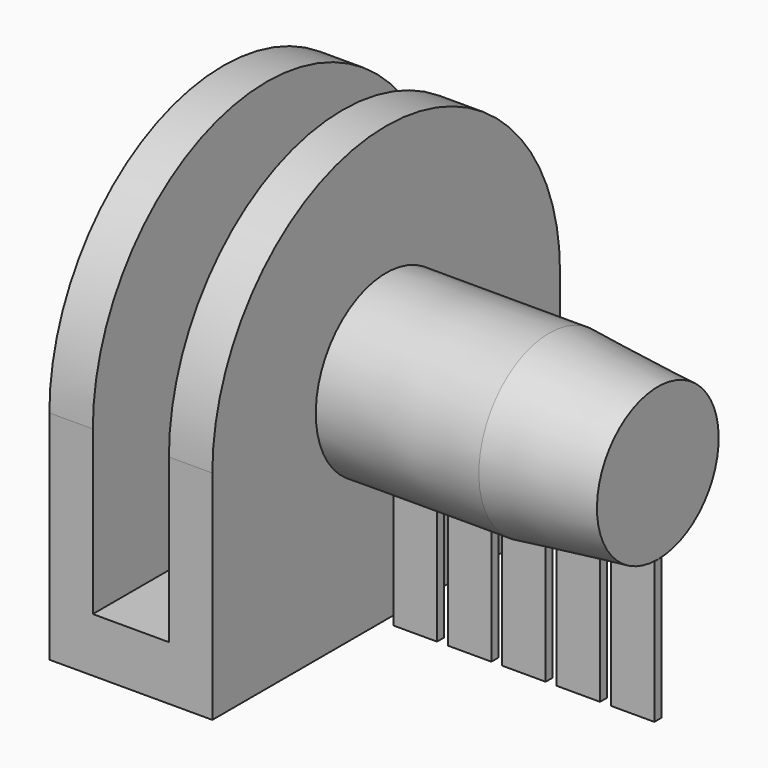
from build123d import *

# Parameters (mm, degrees)
BOX002004_W           = 4
BOX002004_H           = 0.8
BOX002004_DEPTH       = 13
BOX002003_W           = 4
BOX002003_H           = 0.8
BOX002003_DEPTH       = 13
BOX002002_W           = 4
BOX002002_H           = 0.8
BOX002002_DEPTH       = 13
BOX002001_W           = 4
BOX002001_H           = 0.8
BOX002001_DEPTH       = 13
BOX002_W              = 4
BOX002_H              = 0.8
BOX002_DEPTH          = 13
BOX001_W              = 36
BOX001_H              = 46
BOX001_DEPTH          = 7
CYLINDER001_R         = 20
CYLINDER001_DEPTH     = 15
BOX_W                 = 20
BOX_H                 = 40
BOX_DEPTH             = 15
FUSION002_PITCH_ANGLE = 90


with BuildPart() as support005:
    # Box002004 → Box002004 (new body)
    with BuildSketch(Plane(origin=(36, -0.4, -20), x_dir=(1, 0, 0), z_dir=(0, 0, 1))):
        with Locations((2, 0.4)):
            Rectangle(BOX002004_W, BOX002004_H)
    extrude(amount=BOX002004_DEPTH)


with BuildPart() as support004:
    # Box002003 → Box002003 (new body)
    with BuildSketch(Plane(origin=(31, -0.4, -20), x_dir=(1, 0, 0), z_dir=(0, 0, 1))):
        with Locations((2, 0.4)):
            Rectangle(BOX002003_W, BOX002003_H)
    extrude(amount=BOX002003_DEPTH)


with BuildPart() as support003:
    # Box002002 → Box002002 (new body)
    with BuildSketch(Plane(origin=(26, -0.4, -20), x_dir=(1, 0, 0), z_dir=(0, 0, 1))):
        with Locations((2, 0.4)):
            Rectangle(BOX002002_W, BOX002002_H)
    extrude(amount=BOX002002_DEPTH)


with BuildPart() as support002:
    # Box002001 → Box002001 (new body)
    with BuildSketch(Plane(origin=(21, -0.4, -20), x_dir=(1, 0, 0), z_dir=(0, 0, 1))):
        with Locations((2, 0.4)):
            Rectangle(BOX002001_W, BOX002001_H)
    extrude(amount=BOX002001_DEPTH)


with BuildPart() as support:
    # Box002 → Box002 (new body)
    with BuildSketch(Plane(origin=(16, -0.4, -20), x_dir=(1, 0, 0), z_dir=(0, 0, 1))):
        with Locations((2, 0.4)):
            Rectangle(BOX002_W, BOX002_H)
    extrude(amount=BOX002_DEPTH)

    # Fusion003: union Support002
    add(support002.part)

    # Fusion004: union Support003
    add(support003.part)

    # Fusion005: union Support004
    add(support004.part)

    # Fusion006: union Support005
    add(support005.part)


with BuildPart() as cone001:
    # Cone001 → Cone001 (revolve)
    with BuildSketch(Plane(origin=(0, 0, 30), x_dir=(1, 0, 0), z_dir=(0, -1, 0))):
        Polygon((0, 0), (8.09, 0), (7, 10), (0, 10), align=None)
    revolve(axis=Axis((0, 0, 30), (0, 0, 1)))


with BuildPart() as prise_male:
    # Cone → Cone (revolve)
    with BuildSketch(Plane(origin=(0, 0, 15), x_dir=(1, 0, 0), z_dir=(0, -1, 0))):
        Polygon((0, 0), (8.1, 0), (8.09, 15), (0, 15), align=None)
    revolve(axis=Axis((0, 0, 15), (0, 0, 1)))

    # Fusion001: union Cone001
    add(cone001.part)


with BuildPart() as trou:
    # Box001 → Box001 (new body)
    with BuildSketch(Plane(origin=(-21, -23, 4), x_dir=(1, 0, 0), z_dir=(0, 0, 1))):
        with Locations((18, 23)):
            Rectangle(BOX001_W, BOX001_H)
    extrude(amount=BOX001_DEPTH)


with BuildPart() as cylinder_corps:
    # Cylinder001 → Cylinder001 (new body)
    with BuildSketch(Plane.XY):
        Circle(CYLINDER001_R)
    extrude(amount=CYLINDER001_DEPTH)


with BuildPart() as obj1:
    # Box → Box (new body)
    with BuildSketch(Plane(origin=(0, -20, 0), x_dir=(1, 0, 0), z_dir=(0, 0, 1))):
        with Locations((10, 20)):
            Rectangle(BOX_W, BOX_H)
    extrude(amount=BOX_DEPTH)

    # Fusion: union Cylinder-corps
    add(cylinder_corps.part)

    # Cut: cut trou
    add(trou.part, mode=Mode.SUBTRACT)

    # Fusion002: union Prise male
    add(prise_male.part)


with BuildPart() as obj1_1:
    # Fusion002 pitch: moved
    add(obj1.part.rotate(Axis((0, 0, 0), (0, 1, 0)), FUSION002_PITCH_ANGLE))


with BuildPart() as obj1_2:
    # Fusion002 placement: moved
    add(obj1_1.part)

    # Fusion007: union Support
    add(support.part)


solid = obj1_2.part
